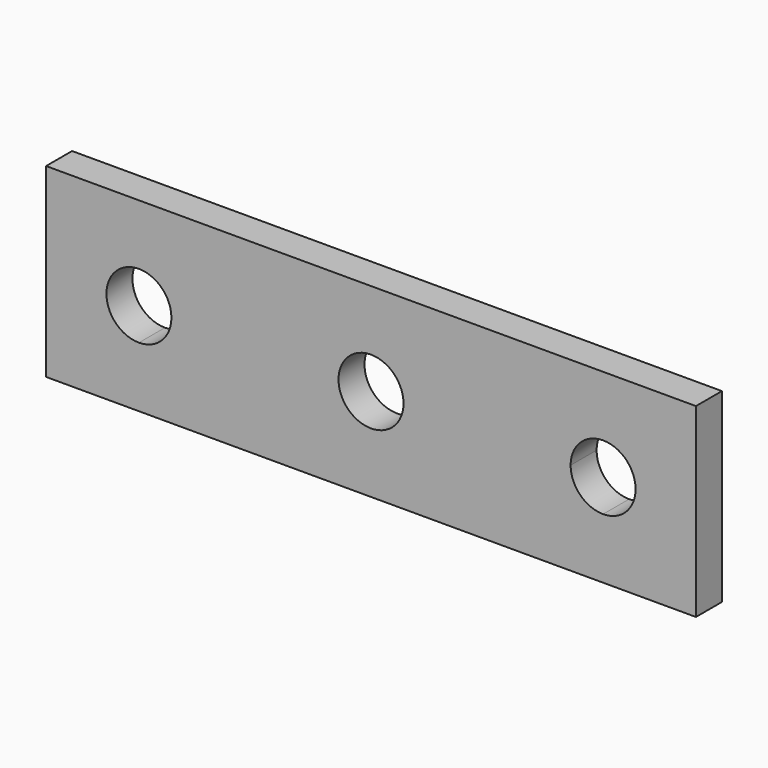
from build123d import *

# Parameters (mm, degrees)
F0_R     = 1.75
F1_DEPTH = 1.75
F2_DEPTH = 1.75


with BuildPart() as f1:
    # F0 (on Front) → F1 (new body)
    with BuildSketch(Plane.XZ):
        Polygon((17.5, 8.6541427299), (-17.5, 8.6541427299), (-17.5, -1.3458572701), (-12.5, -1.3458572701), (12.5, -1.3458572701), (17.5, -1.3458572701), align=None)
        with BuildLine():
            ThreePointArc((-10.75, 3.6541427299), (-11.2625631329, 2.4167058629), (-12.5, 1.9041427299))
            ThreePointArc((-12.5, 1.9041427299), (-13.7374368671, 4.891579597), (-10.75, 3.6541427299))
        make_face(mode=Mode.SUBTRACT)
        with Locations((0, 3.6541427299)):
            Circle(F0_R, mode=Mode.SUBTRACT)
        with BuildLine():
            ThreePointArc((14.25, 3.6541427299), (13.7374368671, 2.4167058629), (12.5, 1.9041427299))
            ThreePointArc((12.5, 1.9041427299), (11.2625631329, 2.4167058629), (10.75, 3.6541427299))
            ThreePointArc((10.75, 3.6541427299), (12.5, 5.4041427299), (14.25, 3.6541427299))
        make_face(mode=Mode.SUBTRACT)
        Polygon((17.5, 8.6541427299), (-17.5, 8.6541427299), (-17.5, -1.3458572701), (-12.5, -1.3458572701), (12.5, -1.3458572701), (17.5, -1.3458572701), align=None)
        with BuildLine():
            ThreePointArc((-10.75, 3.6541427299), (-11.2625631329, 2.4167058629), (-12.5, 1.9041427299))
            ThreePointArc((-12.5, 1.9041427299), (-13.7374368671, 4.891579597), (-10.75, 3.6541427299))
        make_face(mode=Mode.SUBTRACT)
        with Locations((0, 3.6541427299)):
            Circle(F0_R, mode=Mode.SUBTRACT)
        with BuildLine():
            ThreePointArc((14.25, 3.6541427299), (13.7374368671, 2.4167058629), (12.5, 1.9041427299))
            ThreePointArc((12.5, 1.9041427299), (11.2625631329, 2.4167058629), (10.75, 3.6541427299))
            ThreePointArc((10.75, 3.6541427299), (12.5, 5.4041427299), (14.25, 3.6541427299))
        make_face(mode=Mode.SUBTRACT)
    extrude(amount=F1_DEPTH)

    # F2 (add): a face of the model
    f2_faces = [f1.faces().sort_by_distance(p)[0] for p in [
        (17.1359945055, -1.75, 3.6541427299),
    ]]
    extrude(f2_faces, amount=-F2_DEPTH)


solid = f1.part
